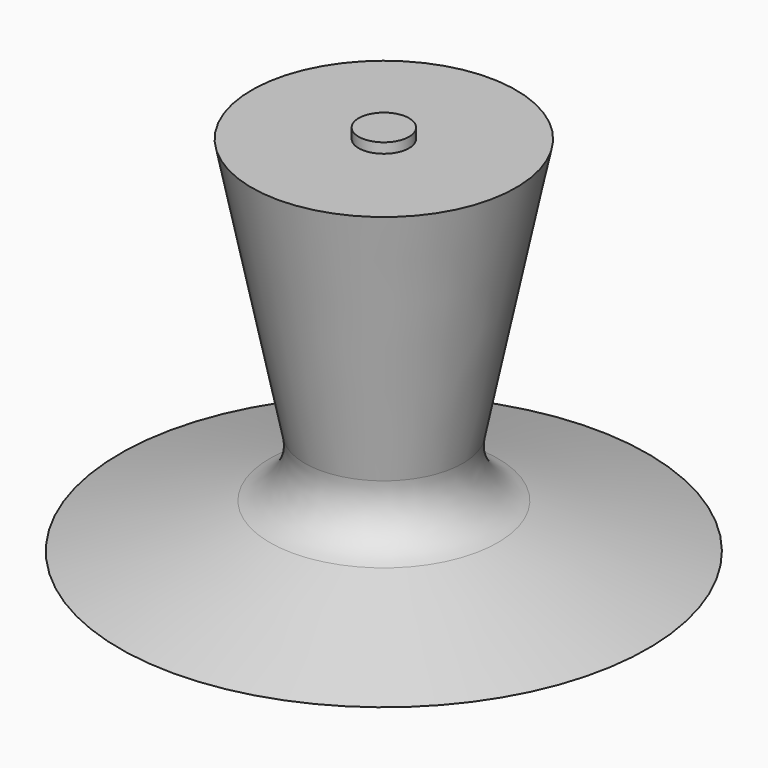
from build123d import *

# Parameters (mm, degrees)
F2_R     = 2.5
F3_DEPTH = 1


with BuildPart() as f1:
    # F0 (on Right) → F1 (revolve)
    with BuildSketch(Plane.YZ):
        with BuildLine():
            Line((0, 2.922098), (-13.120043, 2.922098))
            Line((-13.120043, 2.922098), (-7.84326, -22.875503))
            ThreePointArc((-7.84326, -22.875503), (-8.452987, -26.447656), (-11.315567, -28.669745))
            Line((-11.315567, -28.669745), (-26.197754, -33.098966))
            Line((-26.197754, -33.098966), (0, -33.098966))
            Line((0, -33.098966), (0, 2.922098))
        make_face()
    revolve(axis=Axis((0, 0, -15.088434), (0, 0, 1)))

    # F2 (on face) → F3 (join)
    with BuildSketch(Plane.XY.offset(2.922098)):
        Circle(F2_R)
    extrude(amount=F3_DEPTH)


solid = f1.part
